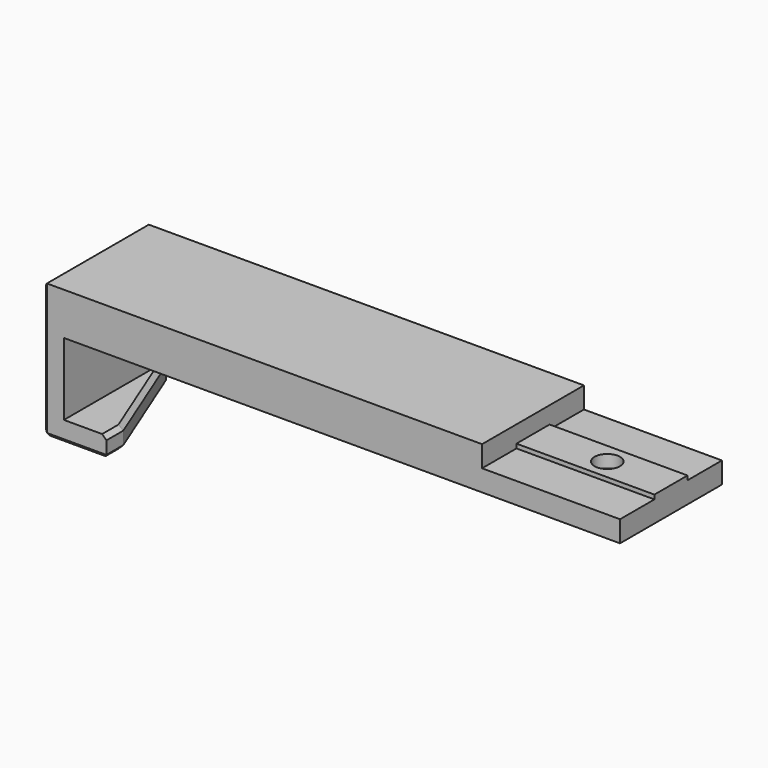
from build123d import *

# Parameters (mm, degrees)
SKETCH033_W     = 136
SKETCH033_H     = 30
PAD012_DEPTH    = 10
SKETCH032_W     = 15
SKETCH032_H     = 30
PAD011_DEPTH    = 22
SKETCH030_W     = 30
SKETCH030_H     = 17
POCKET020_DEPTH = 10
SKETCH031_R     = 3
POCKET021_DEPTH = 10.001
SKETCH034_W     = 32.5
SKETCH034_H     = 30
POCKET022_DEPTH = 5
SKETCH040_R     = 5
POCKET028_DEPTH = 3
CHAMFER_SIZE2   = 25
CHAMFER_SIZE    = 10
CHAMFER010_SIZE = 1
SKETCH080_W     = 32.5
SKETCH080_H     = 9.75
PAD031_DEPTH    = 1
SKETCH084_R     = 3
POCKET051_DEPTH = 5


with BuildPart() as part:
    # Sketch033 → Pad012 (new body)
    with BuildSketch(Plane.XY):
        Rectangle(SKETCH033_W, SKETCH033_H)
    extrude(amount=PAD012_DEPTH)

    # Sketch032 (on Face5 of Pad012) → Pad011 (join)
    with BuildSketch(Plane(origin=(0, 0, 0), x_dir=(1, 0, 0), z_dir=(0, 0, -1))):
        with Locations((-60.5, 0)):
            Rectangle(SKETCH032_W, SKETCH032_H)
    extrude(amount=PAD011_DEPTH)

    # Sketch030 (on Face9 of Pad011) → Pocket020 (cut)
    with BuildSketch(Plane.YZ.offset(-53)):
        with Locations((0, -8.5)):
            Rectangle(SKETCH030_W, SKETCH030_H)
    extrude(amount=-POCKET020_DEPTH, mode=Mode.SUBTRACT)

    # Sketch031 (on Face5 of Pocket020) → Pocket021 (cut, through all)
    with BuildSketch(Plane(origin=(0, 0, 0), x_dir=(1, 0, 0), z_dir=(0, 0, -1))):
        with Locations((53, 0)):
            Circle(SKETCH031_R)
    extrude(amount=-POCKET021_DEPTH, mode=Mode.SUBTRACT)

    # Sketch034 → Pocket022 (cut)
    with BuildSketch(Plane.XY.offset(10)):
        with Locations((51.75, 0)):
            Rectangle(SKETCH034_W, SKETCH034_H)
    extrude(amount=-POCKET022_DEPTH, mode=Mode.SUBTRACT)

    # Sketch040 (on Face4 of Pocket022) → Pocket028 (cut)
    with BuildSketch(Plane(origin=(0, 0, 0), x_dir=(1, 0, 0), z_dir=(0, 0, -1))):
        with Locations((53, 0)):
            Circle(SKETCH040_R)
    extrude(amount=-POCKET028_DEPTH, mode=Mode.SUBTRACT)

    # Chamfer
    chamfer_edges = [part.edges().sort_by_distance(p)[0] for p in [
        (-53, 15, -19.5),
    ]]
    chamfer_side = part.faces().sort_by_distance((-63.15625, 15, -13.65625))[0]
    chamfer(chamfer_edges, length=CHAMFER_SIZE, length2=CHAMFER_SIZE2, reference=chamfer_side)

    # Chamfer010
    chamfer010_edges = [part.edges().sort_by_distance(p)[0] for p in [
        (-58, 2.5, -22),
        (-58, 2.5, -17),
        (-53, -12.5, -22),
        (-53, -12.5, -17),
        (-60.5, -15, -22),
        (-68, 0, -22),
        (-65.5, 15, -22),
        (-68, -15, -11),
        (-68, -15, 5),
        (-68, 0, 10),
        (-68, 15, 5),
        (-68, 15, -11),
    ]]
    chamfer(chamfer010_edges, length=CHAMFER010_SIZE)

    # Sketch080 (on Face21 of Chamfer010) → Pad031 (join)
    with BuildSketch(Plane.XY.offset(5)):
        with Locations((51.75, 0)):
            Rectangle(SKETCH080_W, SKETCH080_H)
    extrude(amount=PAD031_DEPTH)

    # Sketch084 (on Face33 of Pad031) → Pocket051 (cut)
    with BuildSketch(Plane.XY.offset(6)):
        with Locations((53, 0)):
            Circle(SKETCH084_R)
    extrude(amount=-POCKET051_DEPTH, mode=Mode.SUBTRACT)


solid = part.part
